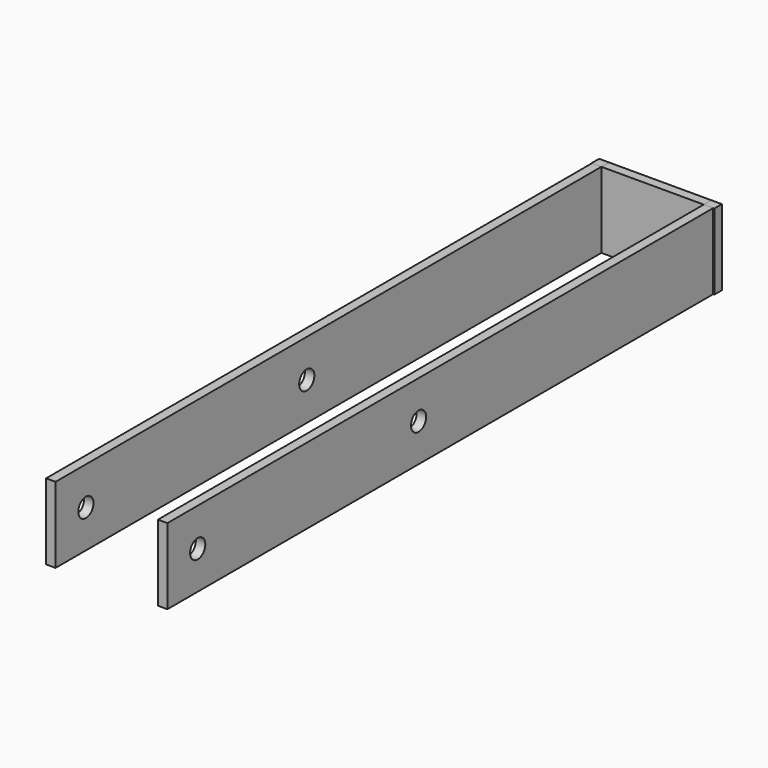
from build123d import *

# Parameters (mm, degrees)
F0_W     = 3.175
F0_H     = 25.4
F1_DEPTH = 228.6
F2_DEPTH = 228.6
F0_W_2   = 34.29
F3_DEPTH = 3.175
F4_DEPTH = 3.556
F5_DEPTH = 3.302
F6_R     = 3.175
F7_DEPTH = 40.768


with BuildPart() as f1:
    # F0 (on Front) → F1 (new body)
    with BuildSketch(Plane.XZ):
        with Locations((-42.2859862377, -4.8126317561)):
            Rectangle(F0_W, F0_H)
    extrude(amount=F1_DEPTH)


with BuildPart() as f2:
    # F0 (on Front) → F2 (new body)
    with BuildSketch(Plane.XZ):
        with Locations((-4.8209862377, -4.8126317561)):
            Rectangle(F0_W, F0_H)
    extrude(amount=F2_DEPTH)


with BuildPart() as f3:
    # F0 (on Front) → F3 (new body)
    with BuildSketch(Plane.XZ):
        with Locations((-23.5534862377, -4.8126317561)):
            Rectangle(F0_W_2, F0_H)
    extrude(amount=-F3_DEPTH)


with BuildPart() as f4:
    # F4 (new): a face of the model
    f4_faces = [f3.part.faces().sort_by_distance(p)[0] for p in [
        (-6.4084862377, 1.5875, -4.8126317561),
    ]]
    extrude(f4_faces, amount=F4_DEPTH)


with BuildPart() as f5:
    # F5 (new): a face of the model
    f5_faces = [f3.part.faces().sort_by_distance(p)[0] for p in [
        (-40.6984862377, 1.5875, -4.8126317561),
    ]]
    extrude(f5_faces, amount=F5_DEPTH)


with BuildPart() as f7_tool:
    # F6 (on face) → F7 (new body, through all)
    with BuildSketch(Plane.YZ.offset(-3.2334862377)):
        with Locations((-123.3883351088, -4.8126317561)):
            Circle(F6_R)
        with Locations((-215.9, -4.8126317561)):
            Circle(F6_R)
    extrude(amount=-F7_DEPTH)


with BuildPart() as f1_1:
    add(f1.part)

    # F7: cut by f7_tool
    add(f7_tool.part, mode=Mode.SUBTRACT)


with BuildPart() as f2_1:
    add(f2.part)

    # F7: cut by f7_tool
    add(f7_tool.part, mode=Mode.SUBTRACT)


solid = Compound([f3.part, f4.part, f5.part, f1_1.part, f2_1.part])
